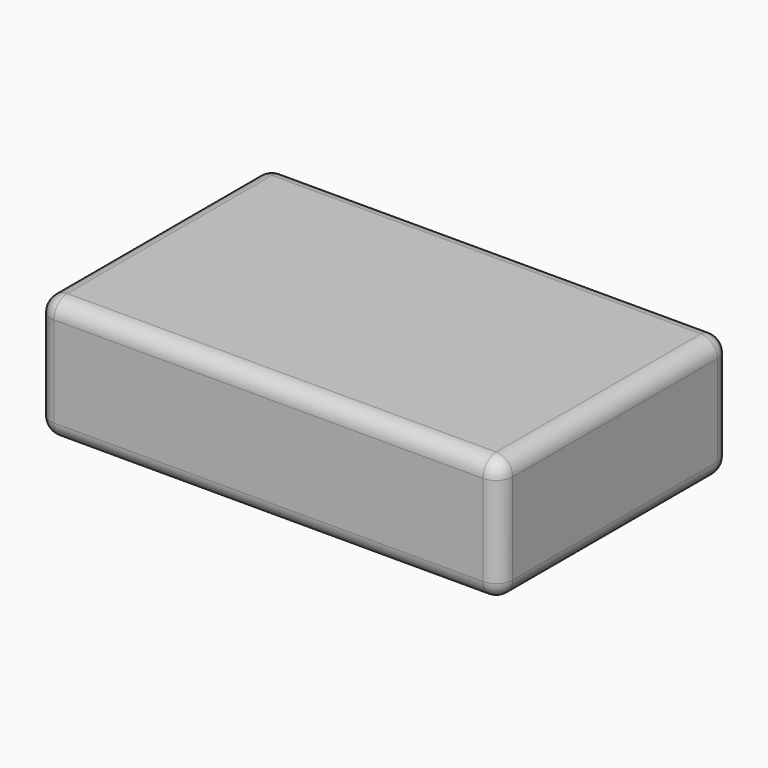
from build123d import *

# Parameters (mm, degrees)
SKETCH_W  = 56
SKETCH_H  = 35
PAD_DEPTH = 15
FILLET_R  = 2


with BuildPart() as part:
    # Sketch → Pad (new body)
    with BuildSketch(Plane.XY):
        with Locations((0, 17.5)):
            Rectangle(SKETCH_W, SKETCH_H)
    extrude(amount=PAD_DEPTH)

    # Fillet
    fillet_edges = [part.edges().sort_by_distance(p)[0] for p in [
        (-28, 35, 7.5),
        (28, 35, 7.5),
        (0, 35, 0),
        (0, 35, 15),
        (28, 0, 7.5),
        (28, 17.5, 0),
        (28, 17.5, 15),
        (-28, 0, 7.5),
        (0, 0, 0),
        (0, 0, 15),
        (-28, 17.5, 0),
        (-28, 17.5, 15),
    ]]
    fillet(fillet_edges, radius=FILLET_R)


solid = part.part
